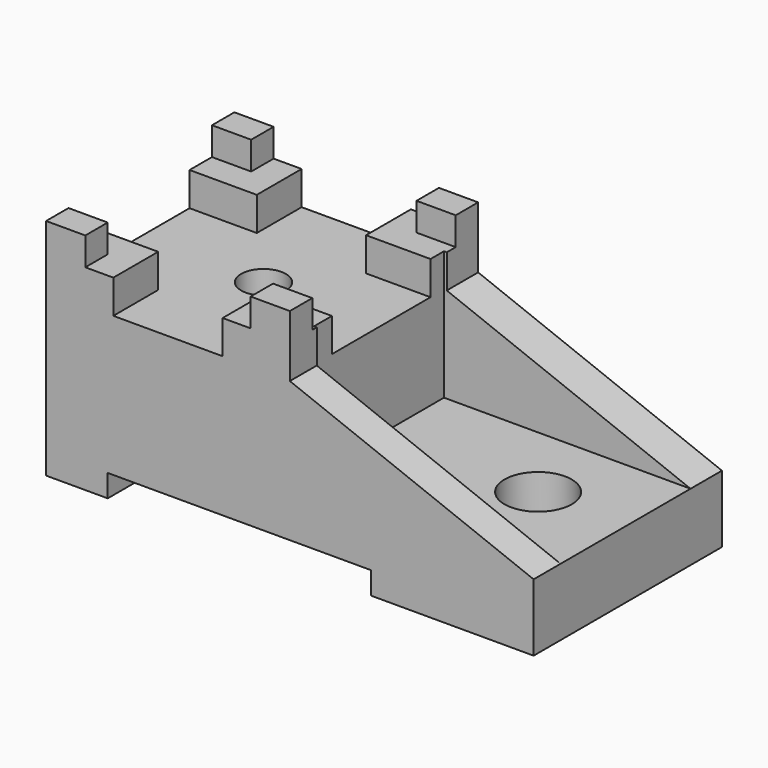
from build123d import *

# Parameters (mm, degrees)
F0_W      = 43.5
F0_H      = 20
F1_DEPTH  = 21
F3_R      = 3
F4_DEPTH  = 20.001
F2_R      = 2
F5_DEPTH  = 16.5
F6_W      = 22
F6_H      = 14.5
F6_R      = 3
F7_DEPTH  = 14
F11_DEPTH = 21.001
F12_W     = 9.75
F12_H     = 3
F12_W_2   = 23.5
F12_H_2   = 2
F13_DEPTH = 21.001
F14_W     = 11
F14_H     = 3
F15_DEPTH = 43.501


with BuildPart() as f1:
    # F0 (on Front) → F1 (new body)
    with BuildSketch(Plane.XZ):
        with Locations((21.75, 10)):
            Rectangle(F0_W, F0_H)
    extrude(amount=F1_DEPTH)

    # F3 (on face) → F4 (cut, through all)
    with BuildSketch(Plane.XY.offset(20)):
        with Locations((35.5, -10.5)):
            Circle(F3_R)
    extrude(amount=-F4_DEPTH, mode=Mode.SUBTRACT)

    # F2 (on face) → F5 (cut)
    with BuildSketch(Plane.XY.offset(20)):
        with Locations((11, -10.5)):
            Circle(F2_R)
    extrude(amount=-F5_DEPTH, mode=Mode.SUBTRACT)

    # F6 (on face) → F7 (cut)
    with BuildSketch(Plane.XY.offset(20)):
        with Locations((32.5, -10.75)):
            Rectangle(F6_W, F6_H)
        with Locations((35.5, -10.5)):
            Circle(F6_R, mode=Mode.SUBTRACT)
    extrude(amount=-F7_DEPTH, mode=Mode.SUBTRACT)

    # F10 (on face) → F11 (cut, through all)
    with BuildSketch(Plane.XZ.offset(21)):
        Polygon((43.5, 6), (43.5, 20), (21.75, 20), (21.75, 14.5), align=None)
    extrude(amount=-F11_DEPTH, mode=Mode.SUBTRACT)

    # F12 (on face) → F13 (cut, through all)
    with BuildSketch(Plane.XZ.offset(21)):
        with Locations((10.875, 16)):
            Rectangle(F12_W, F12_H)
        Polygon((18.25, 20), (3.5, 20), (3.5, 17.5), (6, 17.5), (15.75, 17.5), (18.25, 17.5), align=None)
        with Locations((17.25, 1)):
            Rectangle(F12_W_2, F12_H_2)
    extrude(amount=-F13_DEPTH, mode=Mode.SUBTRACT)

    # F14 (on face) → F15 (cut, through all)
    with BuildSketch(Plane(origin=(0, 0, 0), x_dir=(0, -1, 0), z_dir=(-1, 0, 0))):
        Polygon((18.5, 20), (2.5, 20), (2.5, 17.5), (5, 17.5), (16, 17.5), (18.5, 17.5), align=None)
        with Locations((10.5, 16)):
            Rectangle(F14_W, F14_H)
    extrude(amount=-F15_DEPTH, mode=Mode.SUBTRACT)


solid = f1.part
